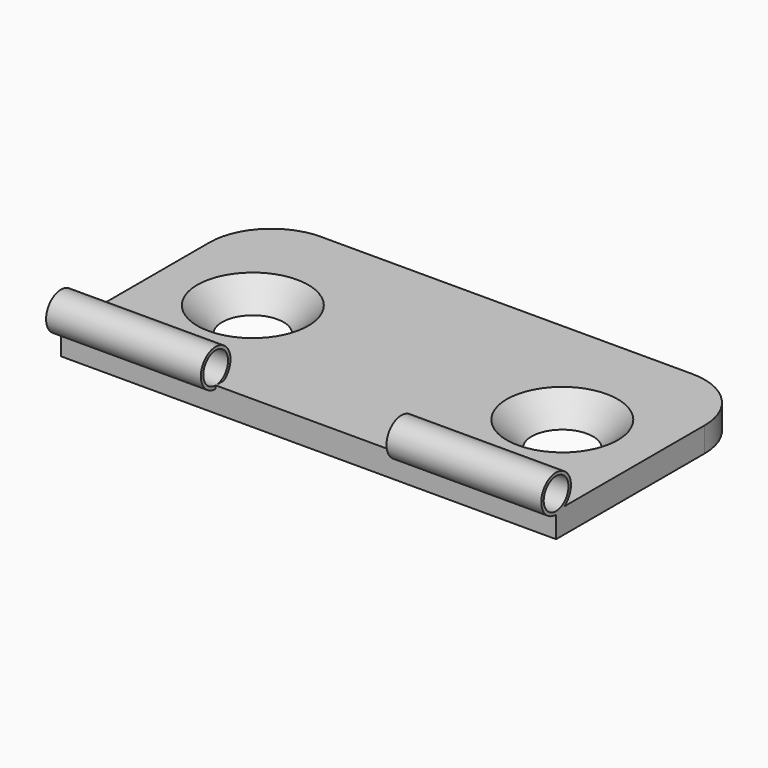
from build123d import *

# Parameters (mm, degrees)
F1_DEPTH        = 2
F3_R            = 1.5
F6_DEPTH        = 12.5
F5_R            = 1.5
F7_DEPTH        = 12.5
F8_R            = 1.25
F9_DEPTH        = 40
F11_D           = 4.4
F11_DEPTH       = 14.1
F11_CSINK_D     = 8.96
F11_CSINK_ANGLE = 90
F11_TIP         = 1.3218933619


with BuildPart() as f1:
    # F0 (on Top) → F1 (new body)
    with BuildSketch(Plane.XY):
        with BuildLine():
            ThreePointArc((20, 5), (18.5355339059, 8.5355339059), (15, 10))
            Line((15, 10), (-15, 10))
            ThreePointArc((-15, 10), (-18.5355339059, 8.5355339059), (-20, 5))
            Line((-20, 5), (-20, -10))
            Line((-20, -10), (20, -10))
            Line((20, -10), (20, 5))
        make_face()
    extrude(amount=F1_DEPTH)

    # F3 (on offset) → F6 (join, through all)
    with BuildSketch(Plane.YZ.offset(7.5)):
        with Locations((-10, 3.25)):
            Circle(F3_R)
    extrude(amount=F6_DEPTH)

    # F5 (on offset) → F7 (join, through all)
    with BuildSketch(Plane.YZ.offset(-7.5)):
        with Locations((-10, 3.25)):
            Circle(F5_R)
    extrude(amount=-F7_DEPTH)

    # F8 (on face) → F9 (cut, through all)
    with BuildSketch(Plane.YZ.offset(20)):
        with Locations((-10, 3.25)):
            Circle(F8_R)
    extrude(amount=-F9_DEPTH, mode=Mode.SUBTRACT)

    # F11
    with Locations(Plane.XY.offset(2)):
        with Locations((-12.5, 0), (12.5, 0)):
            CounterSinkHole(F11_D / 2, F11_CSINK_D / 2, depth=F11_DEPTH, counter_sink_angle=F11_CSINK_ANGLE)
            with Locations((0, 0, -(F11_DEPTH + F11_TIP / 2))):  # 118° drill point
                Cone(0, F11_D / 2, F11_TIP, mode=Mode.SUBTRACT)


solid = f1.part
